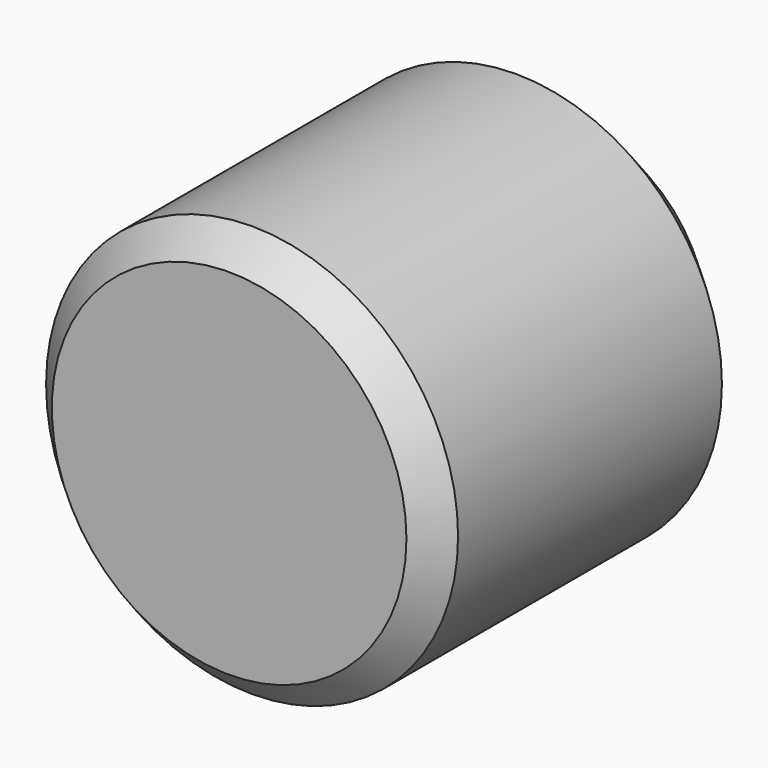
from build123d import *

# Parameters (mm, degrees)
SKETCH014_R     = 1.436584
PAD008_DEPTH    = 3
CHAMFER003_SIZE = 0.5
CHAMFER004_SIZE = 0.2


with BuildPart() as part:
    # Sketch014 → Pad008 (new body)
    with BuildSketch(Plane(origin=(0, -5, 52), x_dir=(1, 0, 0), z_dir=(0, -1, 0))):
        Circle(SKETCH014_R)
    extrude(amount=-PAD008_DEPTH)

    # Chamfer003
    chamfer003_edges = [part.edges().sort_by_distance(p)[0] for p in [
        (-1.436584, -2, 52),
    ]]
    chamfer(chamfer003_edges, length=CHAMFER003_SIZE)

    # Chamfer004
    chamfer004_edges = [part.edges().sort_by_distance(p)[0] for p in [
        (-1.436584, -5, 52),
    ]]
    chamfer(chamfer004_edges, length=CHAMFER004_SIZE)


solid = part.part
